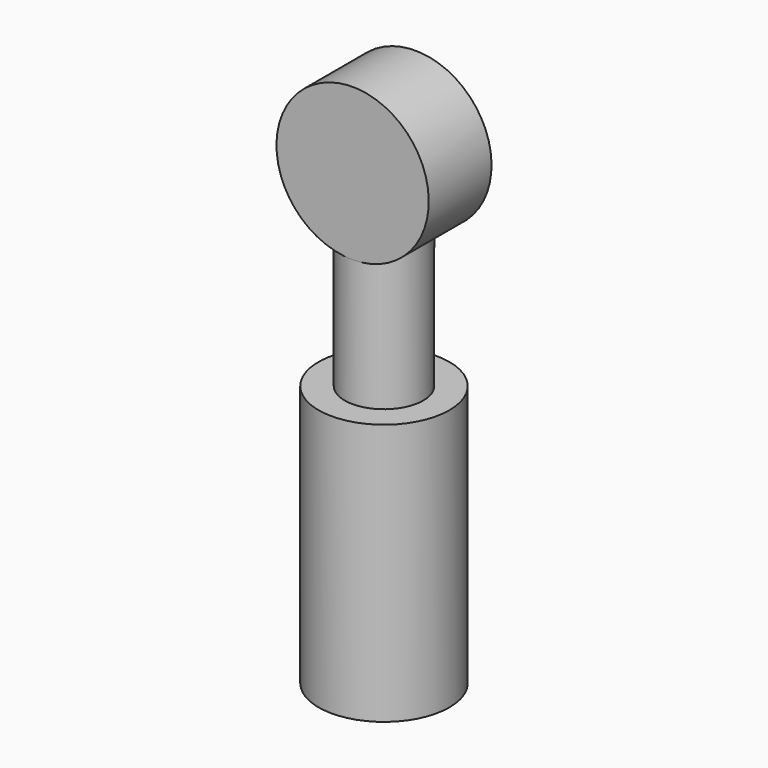
from build123d import *

# Parameters (mm, degrees)
F0_R     = 63.5
F1_DEPTH = 254
F3_R     = 38.1
F2_DEPTH = 152.4
F4_W     = 76.2
F4_H     = 73.906902


with BuildPart() as f1:
    # F0 (on Top) → F1 (new body)
    with BuildSketch(Plane.XY):
        Circle(F0_R)
    extrude(amount=F1_DEPTH)

    # F3 (on face) → F2 (join)
    with BuildSketch(Plane.XY.offset(254)):
        Circle(F3_R)
    extrude(amount=F2_DEPTH)

    # F4 (on Right) → F5 (revolve)
    with BuildSketch(Plane.YZ):
        with Locations((0, 414.412725)):
            Rectangle(F4_W, F4_H)
    revolve(axis=Axis((0, 0, 451.366176), (0, -1, 0)))


solid = f1.part
